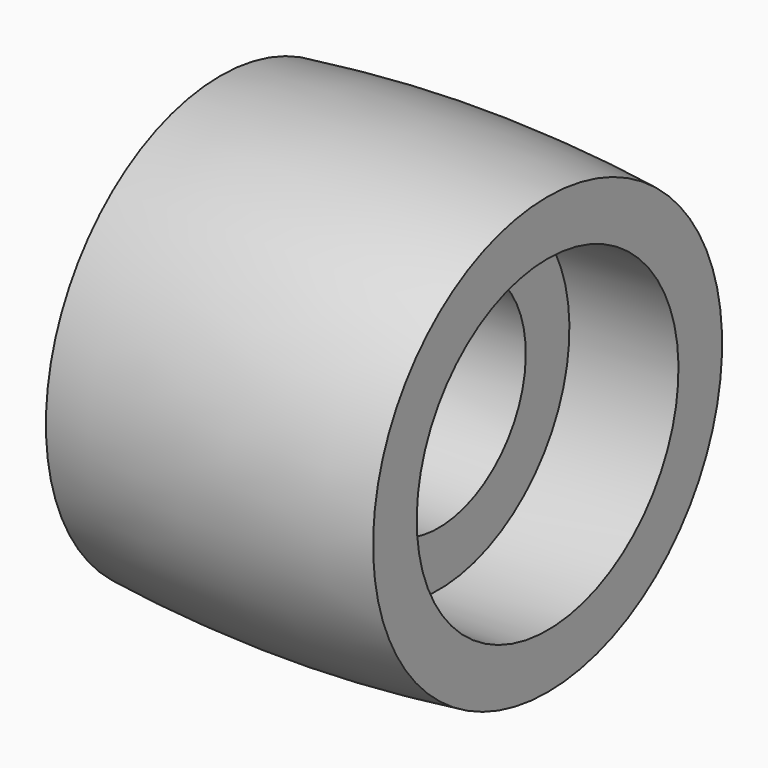
from build123d import *


with BuildPart() as f1:
    # F0 (on Front) → F1 (revolve)
    with BuildSketch(Plane.XZ):
        with BuildLine():
            Line((1.5, 11.909674), (1.5, 12.409674))
            ThreePointArc((1.5, 12.409674), (0, 12.5), (-1.5, 12.409674))
            Line((-1.5, 12.409674), (-1.5, 11.909674))
            Line((-1.5, 11.909674), (-0.5, 11.909674))
            Line((-0.5, 11.909674), (-0.5, 11.409674))
            Line((-0.5, 11.409674), (0, 11.409674))
            Line((0, 11.409674), (0.5, 11.409674))
            Line((0.5, 11.409674), (0.5, 11.909674))
            Line((0.5, 11.909674), (1.5, 11.909674))
        make_face()
    revolve(axis=Axis((-0.051546, 0, 10.409674), (1, 0, 0)))


solid = f1.part
